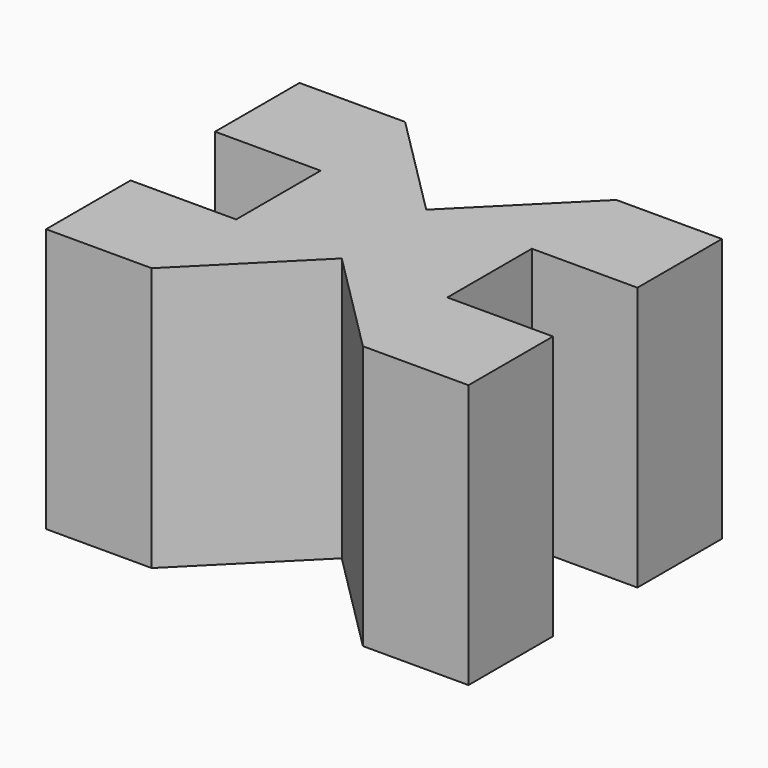
from build123d import *

# Parameters (mm, degrees)
F1_DEPTH = 25


with BuildPart() as f1:
    # F0 (on Top) → F1 (new body)
    with BuildSketch(Plane.XY):
        Polygon((-10, 13.887358), (-20, 13.887358), (-20, 3.887358), (-10, 3.887358), (-10, -6.112642), (-20, -6.112642), (-20, -16.112642), (-10, -16.112642), (0, -6.112642), (10, -16.112642), (20, -16.112642), (20, -6.112642), (10, -6.112642), (10, 3.887358), (20, 3.887358), (20, 13.887358), (10, 13.887358), (0, 3.887358), align=None)
    extrude(amount=F1_DEPTH)


solid = f1.part
